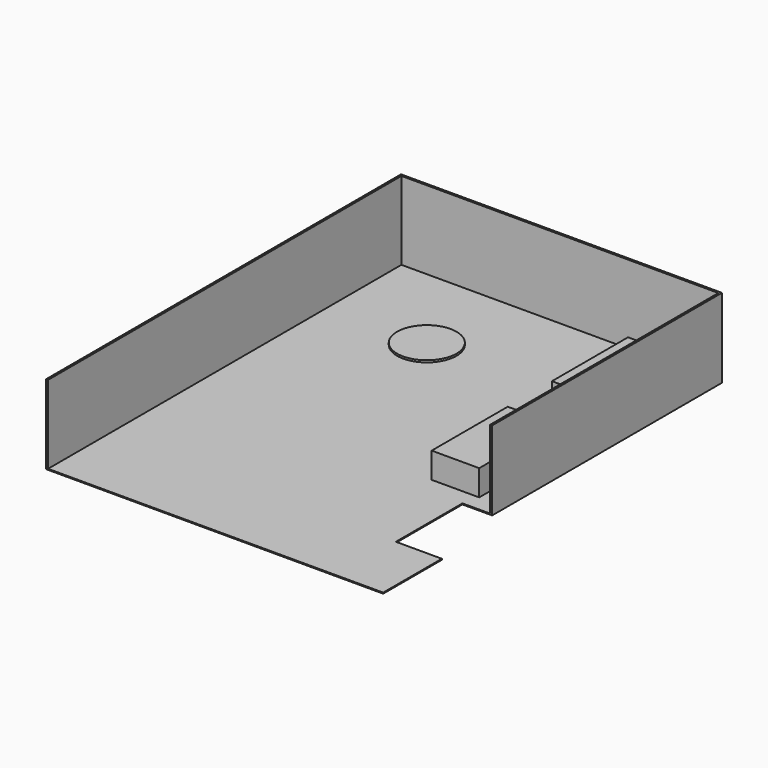
from build123d import *

# Parameters (mm, degrees)
F0_W     = 1200
F0_H     = 2400
F1_DEPTH = 25
F2_DEPTH = 675
F3_DEPTH = 2000
F4_R     = 750
F5_DEPTH = 50


with BuildPart() as f1:
    # F0 (on Top) → F1 (new body)
    with BuildSketch(Plane.XY):
        Polygon((-4673.8049507141, -7247.0402780964), (3786.1950492859, -7247.0402780964), (3786.1950492859, -5397.0402780964), (2626.1950492859, -5397.0402780964), (2626.1950492859, -3297.0402780964), (3326.1950492859, -3297.0402780964), (3326.1950492859, 3902.9597219036), (-4673.8049507141, 3902.9597219036), align=None)
        with Locations((2126.1950492859, -1692.671585083)):
            Rectangle(F0_W, F0_H, mode=Mode.SUBTRACT)
        with Locations((2126.1950492859, 2102.9597219036)):
            Rectangle(F0_W, F0_H, mode=Mode.SUBTRACT)
        with Locations((2126.1950492859, -1692.671585083)):
            Rectangle(F0_W, F0_H)
        with Locations((2126.1950492859, 2102.9597219036)):
            Rectangle(F0_W, F0_H)
    extrude(amount=F1_DEPTH)


with BuildPart() as f2:
    # F0 (on Top) → F2 (new body)
    with BuildSketch(Plane.XY):
        with Locations((2126.1950492859, 2102.9597219036)):
            Rectangle(F0_W, F0_H)
    extrude(amount=F2_DEPTH)


with BuildPart() as f2b:
    # F0 (on Top) → F2, piece 2 (new body)
    with BuildSketch(Plane.XY):
        with Locations((2126.1950492859, -1692.671585083)):
            Rectangle(F0_W, F0_H)
    extrude(amount=F2_DEPTH)


with BuildPart() as f3:
    # F0 (on Top) → F3 (new body)
    with BuildSketch(Plane.XY):
        Polygon((-4723.8049507141, -7247.0402780964), (-4673.8049507141, -7247.0402780964), (-4673.8049507141, 3902.9597219036), (3326.1950492859, 3902.9597219036), (3326.1950492859, -3297.0402780964), (3376.1950492859, -3297.0402780964), (3376.1950492859, 3952.9597219036), (-4723.8049507141, 3952.9597219036), align=None)
    extrude(amount=F3_DEPTH)


with BuildPart() as f5:
    # F4 (on face) → F5 (new body)
    with BuildSketch(Plane.XY.offset(25)):
        with Locations((-2147.2208499908, 1545.1865196228)):
            Circle(F4_R)
    extrude(amount=F5_DEPTH)


solid = Compound([f1.part, f2.part, f2b.part, f3.part, f5.part])
